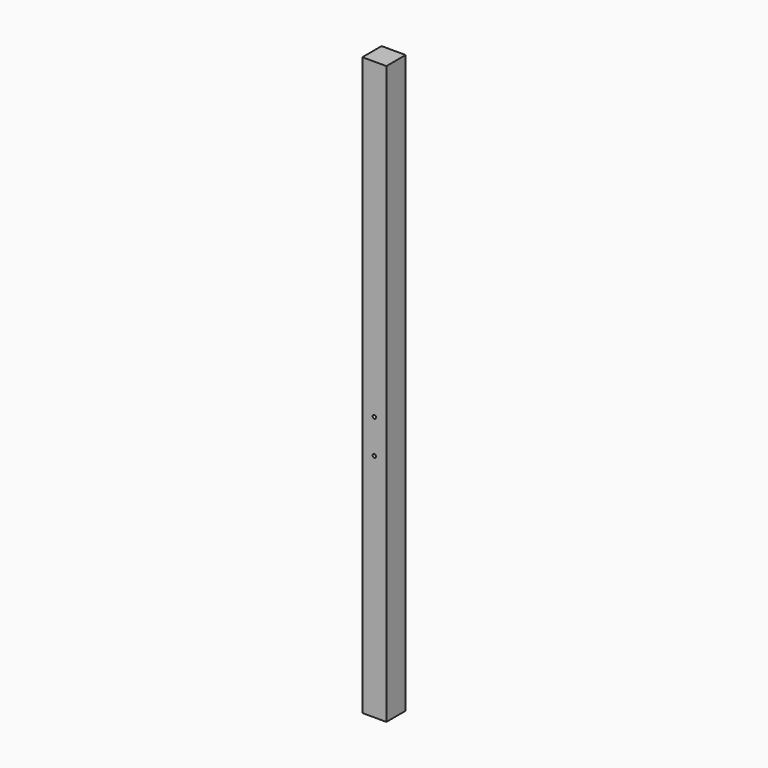
from build123d import *

# Parameters (mm, degrees)
F0_W     = 88.9
F0_H     = 88.9
F1_DEPTH = 1066.8
F2_R     = 6.35
F3_DEPTH = 50.8


with BuildPart() as f1:
    # F0 (on Top) → F1 (new body, symmetric)
    with BuildSketch(Plane.XY):
        Rectangle(F0_W, F0_H)
    extrude(amount=F1_DEPTH, both=True)

    # F2 (on Front) → F3 (cut, symmetric)
    with BuildSketch(Plane.XZ):
        with Locations((0, -88.9)):
            Circle(F2_R)
        with Locations((0, -215.9)):
            Circle(F2_R)
    extrude(amount=F3_DEPTH, both=True, mode=Mode.SUBTRACT)


solid = f1.part
